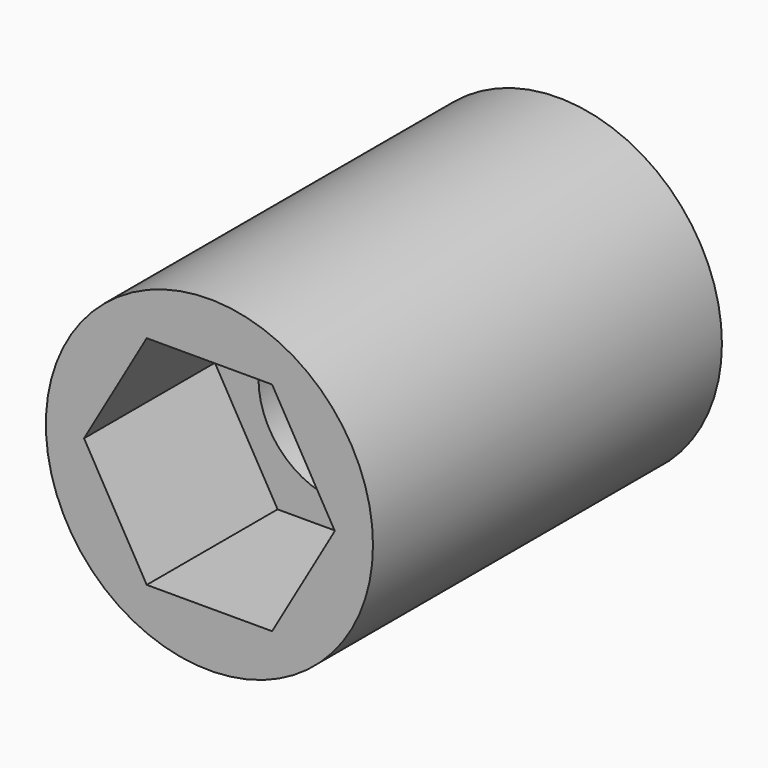
from build123d import *

# Parameters (mm, degrees)
F0_R     = 9.525
F1_DEPTH = 25.4
F3_DEPTH = 25.401
F4_DEPTH = 8.636
F6_DEPTH = 9.525


with BuildPart() as f1:
    # F0 (on Front) → F1 (new body)
    with BuildSketch(Plane.XZ):
        Circle(F0_R)
    extrude(amount=F1_DEPTH)

    # F2 (on Front) → F3 (cut, through all)
    with BuildSketch(Plane.XZ):
        with BuildLine():
            ThreePointArc((4.7625, 0), (3.367596, 3.367596), (0, 4.7625))
            ThreePointArc((0, 4.7625), (-3.367596, 3.367596), (-4.7625, 0))
            ThreePointArc((-4.7625, 0), (-3.367596, -3.367596), (0, -4.7625))
            ThreePointArc((0, -4.7625), (3.367596, -3.367596), (4.7625, 0))
        make_face()
    extrude(amount=F3_DEPTH, mode=Mode.SUBTRACT)

    # F2 (on Front) → F4 (cut)
    with BuildSketch(Plane.XZ):
        with BuildLine():
            ThreePointArc((-4.7625, 0), (-3.367596, 3.367596), (0, 4.7625))
            Line((0, 4.7625), (-4.7625, 4.7625))
            Line((-4.7625, 4.7625), (-4.7625, 0))
        make_face()
        with BuildLine():
            Line((4.7625, 0), (4.7625, 4.7625))
            Line((4.7625, 4.7625), (0, 4.7625))
            ThreePointArc((0, 4.7625), (3.367596, 3.367596), (4.7625, 0))
        make_face()
        with BuildLine():
            ThreePointArc((0, -4.7625), (-3.367596, -3.367596), (-4.7625, 0))
            Line((-4.7625, 0), (-4.7625, -4.7625))
            Line((-4.7625, -4.7625), (0, -4.7625))
        make_face()
        with BuildLine():
            Line((4.7625, -4.7625), (4.7625, 0))
            ThreePointArc((4.7625, 0), (3.367596, -3.367596), (0, -4.7625))
            Line((0, -4.7625), (4.7625, -4.7625))
        make_face()
    extrude(amount=F4_DEPTH, mode=Mode.SUBTRACT)

    # F5 (on face) → F6 (cut)
    with BuildSketch(Plane.XZ.offset(25.4)):
        Polygon((3.65125, 6.324151), (-3.65125, 6.324151), (-7.3025, 0), (-3.65125, -6.324151), (3.65125, -6.324151), (7.3025, 0), align=None)
    extrude(amount=-F6_DEPTH, mode=Mode.SUBTRACT)


solid = f1.part
